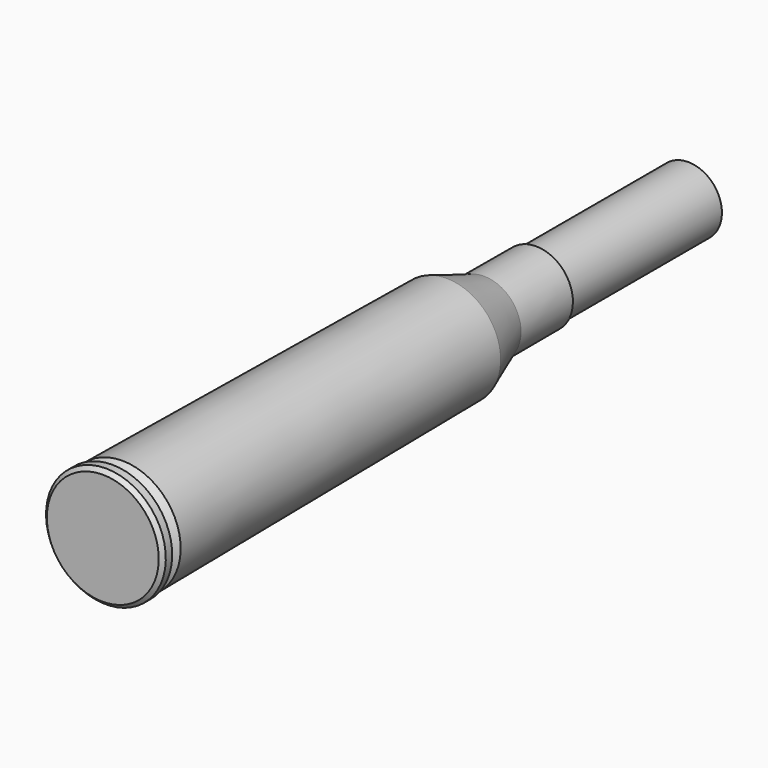
from build123d import *

# Parameters (mm, degrees)
F0_W   = 0.9
F0_H   = 6.62
F0_W_2 = 24.3
F0_H_2 = 4.305


with BuildPart() as f1:
    # F0 (on Right) → F1 (revolve)
    with BuildSketch(Plane.YZ):
        Polygon((0, 7.15), (0, 0), (0.5, 0), (1.52, 0), (1.52, 6.62), (1.52, 7.65), (0.5, 7.65), align=None)
        with Locations((1.97, 3.31)):
            Rectangle(F0_W, F0_H)
        Polygon((2.42, 6.62), (2.42, 0), (3.12, 0), (3.12, 7.455), align=None)
        Polygon((3.12, 7.455), (3.12, 0), (54.9, 0), (54.9, 6.91), align=None)
        Polygon((54.9, 6.91), (54.9, 0), (60.89, 0), (60.89, 4.73), align=None)
        Polygon((60.89, 4.73), (60.89, 0), (69.2, 0), (69.2, 4.305), (69.2, 4.705), align=None)
        with Locations((81.35, 2.1525)):
            Rectangle(F0_W_2, F0_H_2)
    revolve(axis=Axis((0, 29.01, 0), (0, 1, 0)))


solid = f1.part
